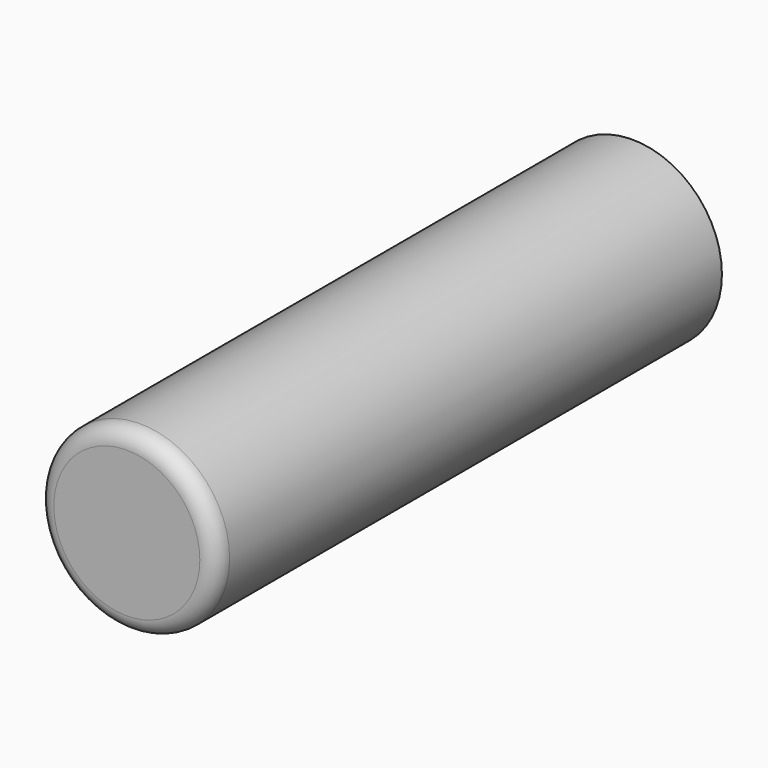
from build123d import *

# Parameters (mm, degrees)
F0_R     = 431.8
F1_DEPTH = 3048
F2_R     = 79.717332


with BuildPart() as f1:
    # F0 (on Front) → F1 (new body)
    with BuildSketch(Plane.XZ):
        Circle(F0_R)
        Circle(F0_R)
    extrude(amount=F1_DEPTH)

    # F2
    f2_edges = [f1.edges().sort_by_distance(p)[0] for p in [
        (-431.8, -3048, 0),
    ]]
    fillet(f2_edges, radius=F2_R)


solid = f1.part
